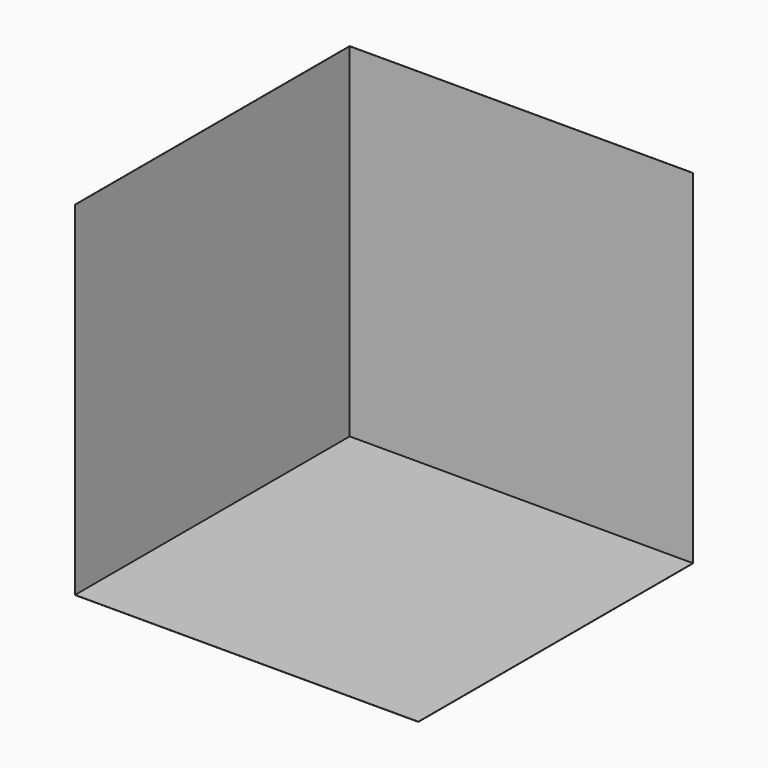
from build123d import *

# Parameters (mm, degrees)
F0_W     = 457.2
F0_H     = 457.2
F1_DEPTH = 0.254
F2_W     = 0.254
F2_H     = 456.946
F2_H_2   = 0.254
F2_W_2   = 456.946
F3_DEPTH = 457.2


with BuildPart() as f1:
    # F0 (on Top) → F1 (new body)
    with BuildSketch(Plane.XY):
        with Locations((228.6, 228.6)):
            Rectangle(F0_W, F0_H)
    extrude(amount=F1_DEPTH)

    # F2 (on face) → F3 (join)
    with BuildSketch(Plane.XY.offset(0.254)):
        with Locations((0.127, 228.473)):
            Rectangle(F2_W, F2_H)
        with Locations((0.127, 457.073)):
            Rectangle(F2_W, F2_H_2)
        with Locations((228.727, 457.073)):
            Rectangle(F2_W_2, F2_H_2)
    extrude(amount=F3_DEPTH)


solid = f1.part
